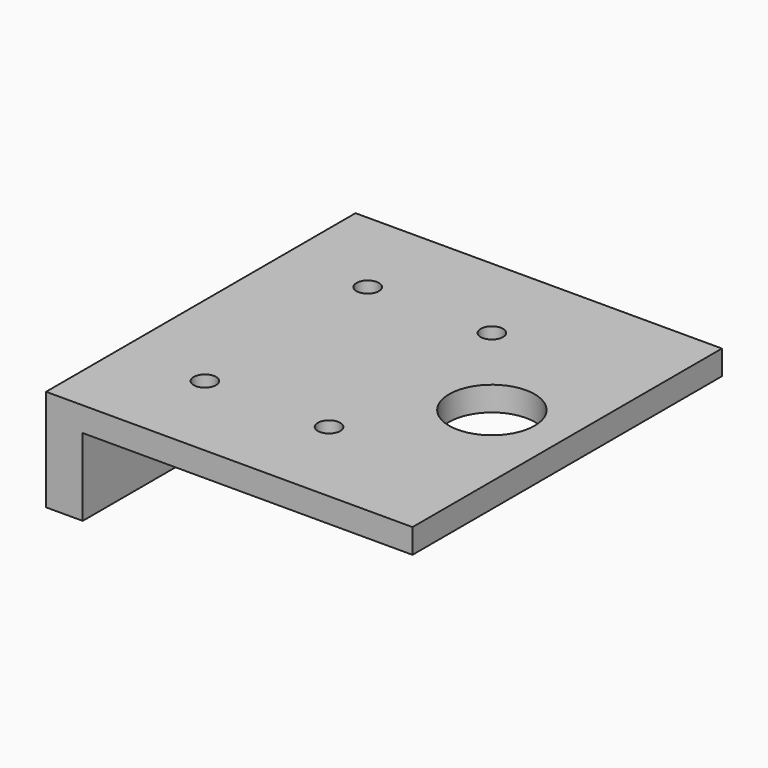
from build123d import *

# Parameters (mm, degrees)
F1_DEPTH = 95
F2_R     = 2.75
F2_R_2   = 10.5
F3_DEPTH = 6


with BuildPart() as f1:
    # F0 (on Front) → F1 (new body)
    with BuildSketch(Plane.XZ):
        Polygon((0, -6), (0, 0), (-90, 0), (-90, -25), (-81, -25), (-81, -6), align=None)
    extrude(amount=F1_DEPTH)

    # F2 (on face) → F3 (cut)
    with BuildSketch(Plane(origin=(0, 0, -6), x_dir=(1, 0, 0), z_dir=(0, 0, -1))):
        with Locations((-69, 72.5)):
            Circle(F2_R)
        with Locations((-38.5, 72.5)):
            Circle(F2_R)
        with Locations((-69, 22.5)):
            Circle(F2_R)
        with Locations((-38.5, 22.5)):
            Circle(F2_R)
        with Locations((-18.5, 47.5)):
            Circle(F2_R_2)
    extrude(amount=-F3_DEPTH, mode=Mode.SUBTRACT)


solid = f1.part
